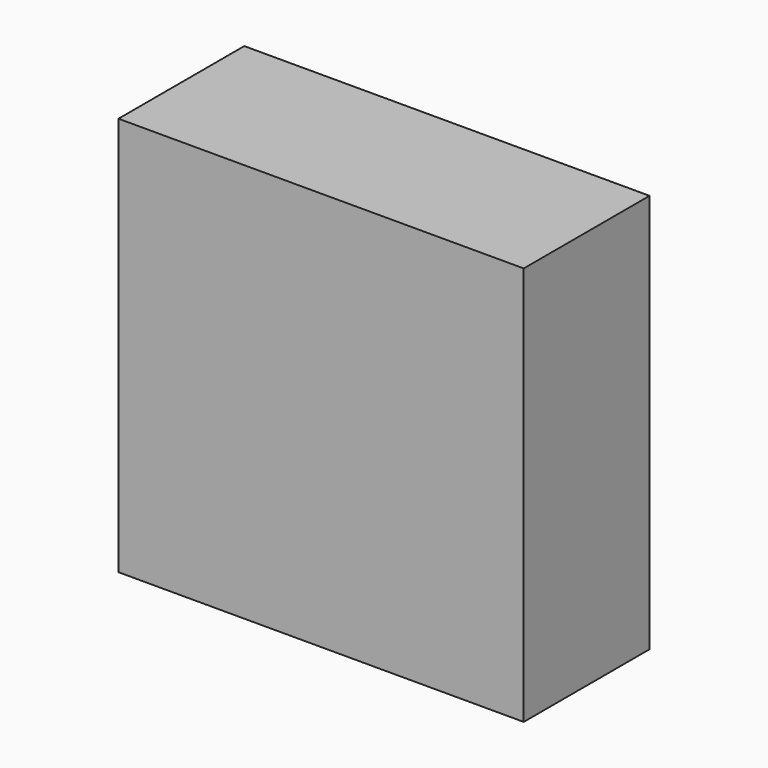
from build123d import *

# Parameters (mm, degrees)
F1_W     = 540
F1_H     = 200
F2_DEPTH = 480
F3_W     = 670
F3_H     = 260
F4_DEPTH = 660


with BuildPart() as f2:
    # F1 (on offset) → F2 (new body)
    with BuildSketch(Plane.XY.offset(90)):
        Rectangle(F1_W, F1_H)
    extrude(amount=F2_DEPTH)


with BuildPart() as f4:
    # F3 (on Top) → F4 (new body)
    with BuildSketch(Plane.XY):
        Rectangle(F3_W, F3_H)
    extrude(amount=F4_DEPTH)


solid = Compound([f2.part, f4.part])
